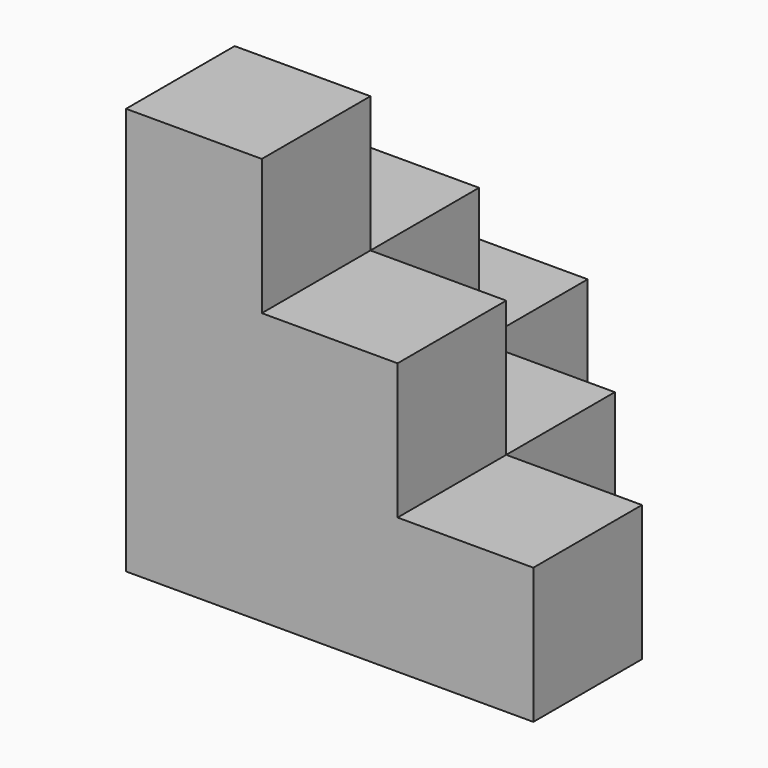
from build123d import *

# Parameters (mm, degrees)
BOX001_W     = 10
BOX001_H     = 10
BOX001_DEPTH = 20
BOX002_W     = 10
BOX002_H     = 10
BOX002_DEPTH = 20
BOX003_W     = 10
BOX003_H     = 10
BOX003_DEPTH = 10
BOX004_W     = 10
BOX004_H     = 10
BOX004_DEPTH = 10
BOX005_W     = 10
BOX005_H     = 10
BOX005_DEPTH = 10
BOX_W        = 10
BOX_H        = 10
BOX_DEPTH    = 30


with BuildPart() as cubo2:
    # Box001 → Box001 (new body)
    with BuildSketch(Plane(origin=(10, 0, 0), x_dir=(1, 0, 0), z_dir=(0, 0, 1))):
        with Locations((5, 5)):
            Rectangle(BOX001_W, BOX001_H)
    extrude(amount=BOX001_DEPTH)


with BuildPart() as cubo3:
    # Box002 → Box002 (new body)
    with BuildSketch(Plane(origin=(0, 10, 0), x_dir=(1, 0, 0), z_dir=(0, 0, 1))):
        with Locations((5, 5)):
            Rectangle(BOX002_W, BOX002_H)
    extrude(amount=BOX002_DEPTH)


with BuildPart() as cubo4:
    # Box003 → Box003 (new body)
    with BuildSketch(Plane(origin=(20, 0, 0), x_dir=(1, 0, 0), z_dir=(0, 0, 1))):
        with Locations((5, 5)):
            Rectangle(BOX003_W, BOX003_H)
    extrude(amount=BOX003_DEPTH)


with BuildPart() as cubo5:
    # Box004 → Box004 (new body)
    with BuildSketch(Plane(origin=(0, 20, 0), x_dir=(1, 0, 0), z_dir=(0, 0, 1))):
        with Locations((5, 5)):
            Rectangle(BOX004_W, BOX004_H)
    extrude(amount=BOX004_DEPTH)


with BuildPart() as cubo6:
    # Box005 → Box005 (new body)
    with BuildSketch(Plane(origin=(10, 10, 0), x_dir=(1, 0, 0), z_dir=(0, 0, 1))):
        with Locations((5, 5)):
            Rectangle(BOX005_W, BOX005_H)
    extrude(amount=BOX005_DEPTH)


with BuildPart() as fusion:
    # Box → Box (new body)
    with BuildSketch(Plane.XY):
        with Locations((5, 5)):
            Rectangle(BOX_W, BOX_H)
    extrude(amount=BOX_DEPTH)

    # Fusion: union cubo2, cubo3, cubo4, cubo5, cubo6
    add(cubo2.part)
    add(cubo3.part)
    add(cubo4.part)
    add(cubo5.part)
    add(cubo6.part)


solid = fusion.part
